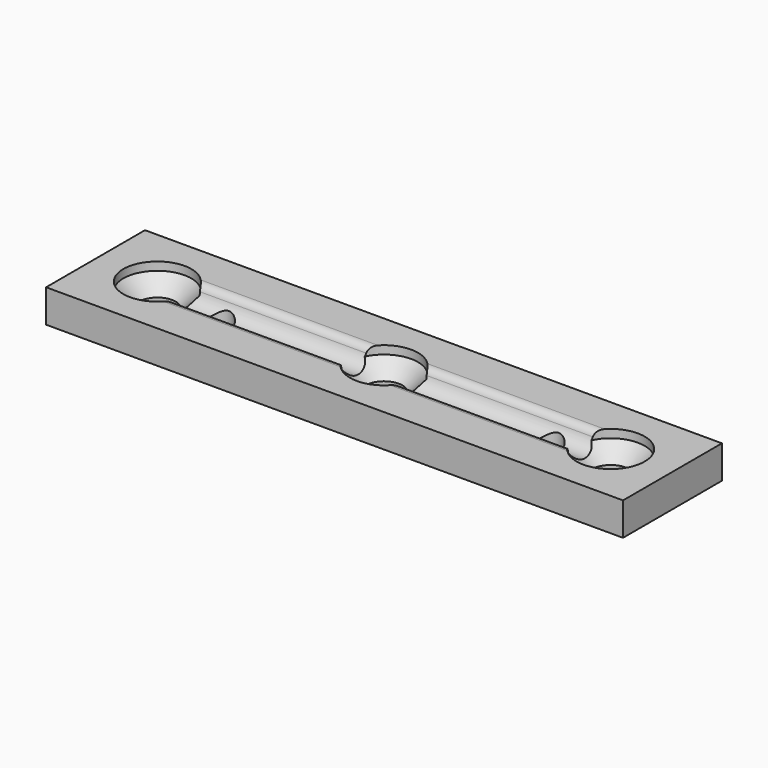
from build123d import *

# Parameters (mm, degrees)
F0_W           = 140
F0_H           = 30
F1_DEPTH       = 8
F2_R           = 8.25
F3_DEPTH       = 2
F5_D           = 9
F5_CSINK_D     = 16.5
F5_CSINK_ANGLE = 90
F6_R           = 4
F7_DEPTH       = 55
F8_R           = 2
F10_D          = 6


with BuildPart() as f1:
    # F0 (on Top) → F1 (new body)
    with BuildSketch(Plane.XY):
        Rectangle(F0_W, F0_H)
    extrude(amount=F1_DEPTH)

    # F2 (on face) → F3 (cut)
    with BuildSketch(Plane.XY.offset(8)):
        with Locations((-55, 0)):
            Circle(F2_R)
        Circle(F2_R)
        with Locations((55, 0)):
            Circle(F2_R)
    extrude(amount=-F3_DEPTH, mode=Mode.SUBTRACT)

    # F5 (through all)
    with Locations(Plane.XY.offset(6)):
        with Locations((-55, 0), (0, 0), (55, 0)):
            CounterSinkHole(F5_D / 2, F5_CSINK_D / 2, counter_sink_angle=F5_CSINK_ANGLE)

    # F6 (on Right) → F7 (cut, symmetric)
    with BuildSketch(Plane.YZ):
        with Locations((0, 8)):
            Circle(F6_R)
    extrude(amount=F7_DEPTH, both=True, mode=Mode.SUBTRACT)

    # F8
    f8_edges = [f1.edges().sort_by_distance(p)[0] for p in [
        (-27.5, 4, 8),
        (27.5, 4, 8),
        (27.5, -4, 8),
        (-27.5, -4, 8),
    ]]
    fillet(f8_edges, radius=F8_R)

    # F10 (through all)
    with Locations(Plane.XY.offset(8)):
        with Locations((-40, 0), (40, 0)):
            Hole(F10_D / 2)


solid = f1.part
